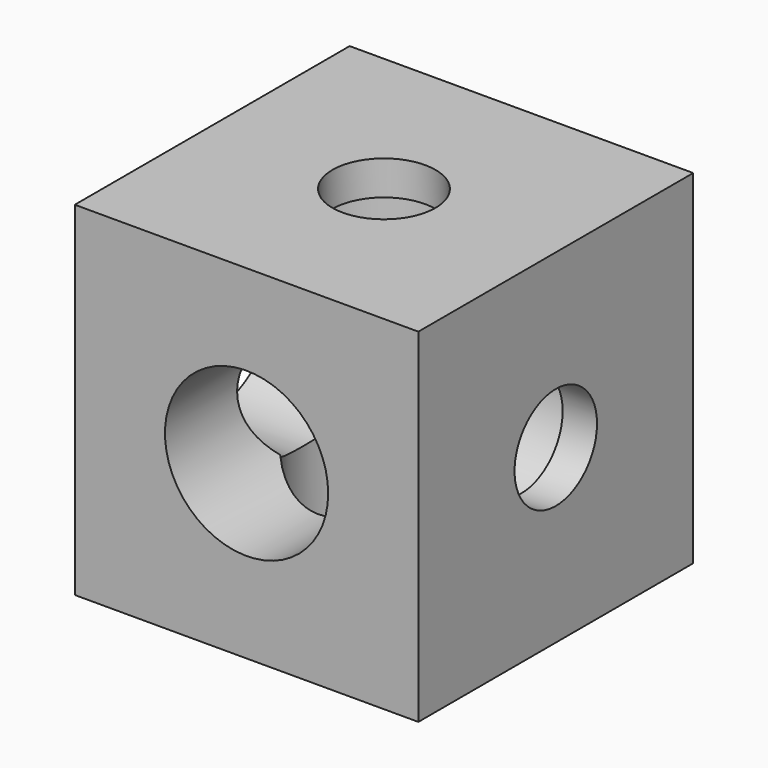
from build123d import *

# Parameters (mm, degrees)
F0_W           = 30
F0_H           = 30
F1_DEPTH       = 30
F3_D           = 9
F3_CBORE_D     = 14.25
F3_CBORE_DEPTH = 27
F5_D           = 9
F5_CBORE_D     = 14.25
F5_CBORE_DEPTH = 27
F7_D           = 9
F7_CBORE_D     = 14.25
F7_CBORE_DEPTH = 27


with BuildPart() as f1:
    # F0 (on Front) → F1 (new body)
    with BuildSketch(Plane.XZ):
        Rectangle(F0_W, F0_H)
    extrude(amount=F1_DEPTH)

    # F3 (through all)
    with Locations(Plane.XZ.offset(30)):
        with Locations((0, 0)):
            CounterBoreHole(F3_D / 2, F3_CBORE_D / 2, F3_CBORE_DEPTH)

    # F5 (through all)
    with Locations(Plane(origin=(-15, 0, 0), x_dir=(0, -1, 0), z_dir=(-1, 0, 0))):
        with Locations((15, 0)):
            CounterBoreHole(F5_D / 2, F5_CBORE_D / 2, F5_CBORE_DEPTH)

    # F7 (through all)
    with Locations(Plane(origin=(0, 0, -15), x_dir=(1, 0, 0), z_dir=(0, 0, -1))):
        with Locations((0, 15)):
            CounterBoreHole(F7_D / 2, F7_CBORE_D / 2, F7_CBORE_DEPTH)


solid = f1.part
